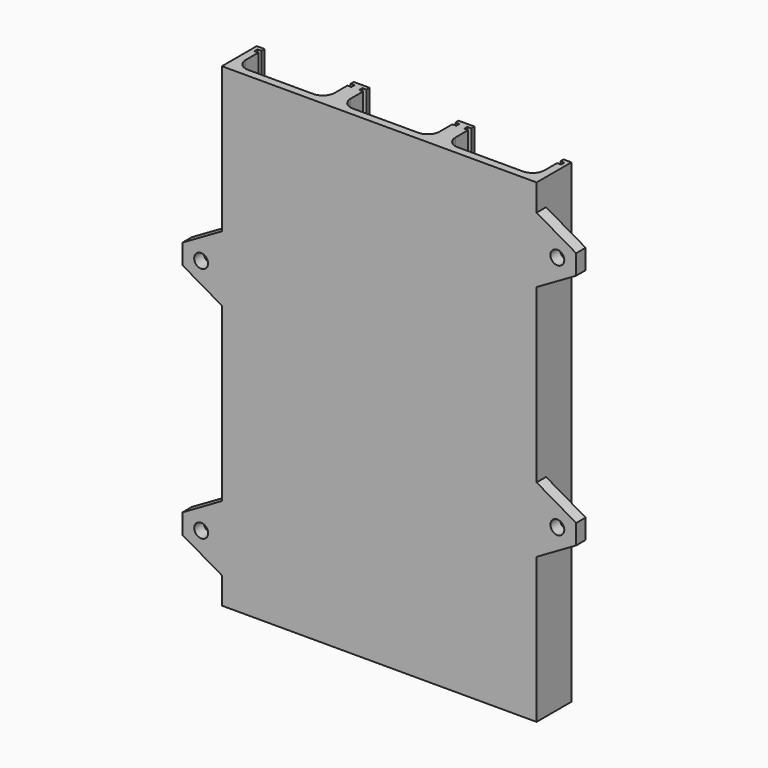
from build123d import *

# Parameters (mm, degrees)
PAD_DEPTH    = 120
SKETCH001_R  = 1.75
PAD001_DEPTH = 3
FILLET_R     = 3


with BuildPart() as part:
    # Sketch → Pad (new body)
    with BuildSketch(Plane.XY):
        Polygon((0, 0), (79.5, 0), (79.5, 11), (77.5, 11), (77.5, 10), (78.5, 10), (78.5, 9), (77.5, 9), (77.5, 2), (55, 2), (55, 9), (54, 9), (54, 10), (55, 10), (55, 11), (51, 11), (51, 10), (52, 10), (52, 9), (51, 9), (51, 2), (28.5, 2), (28.5, 9), (27.5, 9), (27.5, 10), (28.5, 10), (28.5, 11), (24.5, 11), (24.5, 10), (25.5, 10), (25.5, 9), (24.5, 9), (24.5, 2), (2, 2), (2, 9), (1, 9), (1, 10), (2, 10), (2, 11), (0, 11), align=None)
    extrude(amount=PAD_DEPTH)

    # Sketch001 → Pad001 (join)
    with BuildSketch(Plane.XZ):
        Polygon((0, 6.726497), (-10, 12.5), (-10, 17.5), (0, 23.273503), align=None)
        with Locations((-5.25, 15)):
            Circle(SKETCH001_R, mode=Mode.SUBTRACT)
        Polygon((0, 66.726497), (-10, 72.5), (-10, 77.5), (0, 83.273503), align=None)
        with Locations((-5.25, 75)):
            Circle(SKETCH001_R, mode=Mode.SUBTRACT)
        Polygon((79.5, 36.726497), (89.5, 42.5), (89.5, 47.5), (79.5, 53.273503), align=None)
        with Locations((84.75, 45)):
            Circle(SKETCH001_R, mode=Mode.SUBTRACT)
        Polygon((79.5, 96.726497), (89.5, 102.5), (89.5, 107.5), (79.5, 113.273503), align=None)
        with Locations((84.75, 105)):
            Circle(SKETCH001_R, mode=Mode.SUBTRACT)
    extrude(amount=-PAD001_DEPTH)

    # Fillet
    fillet_edges = [part.edges().sort_by_distance(p)[0] for p in [
        (2, 2, 60),
        (28.5, 2, 60),
        (55, 2, 60),
        (24.5, 2, 60),
        (51, 2, 60),
        (77.5, 2, 60),
    ]]
    fillet(fillet_edges, radius=FILLET_R)


solid = part.part
